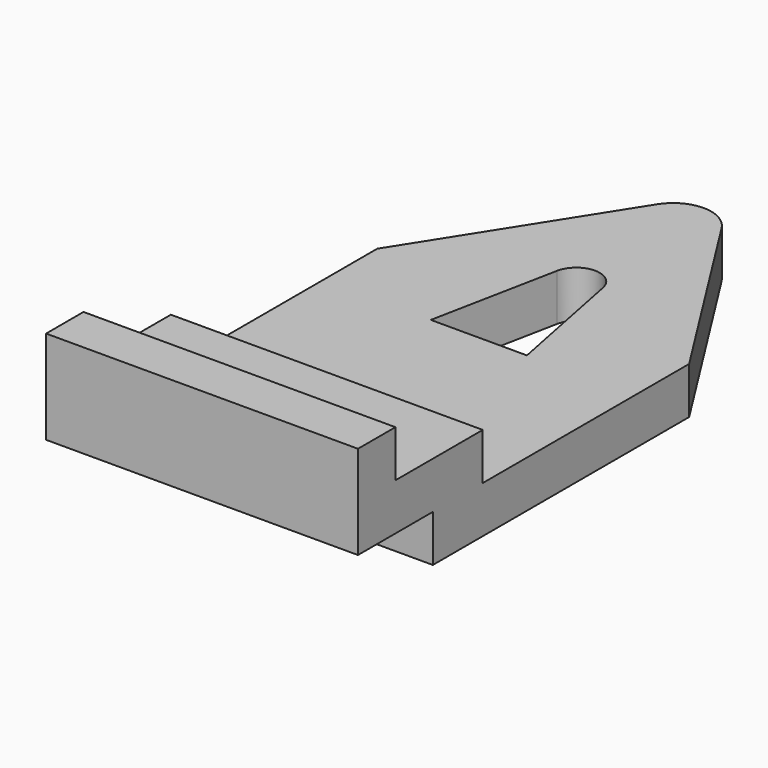
from build123d import *

# Parameters (mm, degrees)
F1_DEPTH = 3
F2_W     = 20
F2_H     = 10
F3_DEPTH = 6
F4_W     = 20
F4_H     = 6
F5_DEPTH = 3
F6_W     = 20
F6_H     = 7
F7_DEPTH = 3


with BuildPart() as f1:
    # F0 (on Top) → F1 (new body)
    with BuildSketch(Plane.XY):
        with BuildLine():
            ThreePointArc((2.064754, -3.25858), (0, -2.122529), (-2.064754, -3.25858))
            Line((-2.064754, -3.25858), (-10, -15.781926))
            Line((-10, -15.781926), (-10, -42.324677))
            Line((-10, -42.324677), (0, -42.324677))
            Line((0, -42.324677), (10, -42.324677))
            Line((10, -42.324677), (10, -15.781926))
            Line((10, -15.781926), (2.064754, -3.25858))
        make_face()
        with BuildLine():
            ThreePointArc((-1.471273, -12.032518), (0, -10.824677), (1.471273, -12.032518))
            Line((1.471273, -12.032518), (3.080257, -20.135145))
            Line((3.080257, -20.135145), (-3.080257, -20.135145))
            Line((-3.080257, -20.135145), (-1.471273, -12.032518))
        make_face(mode=Mode.SUBTRACT)
    extrude(amount=F1_DEPTH)

    # F2 (on face) → F3 (join)
    with BuildSketch(Plane.XY.offset(3)):
        with Locations((0, -37.324677)):
            Rectangle(F2_W, F2_H)
    extrude(amount=F3_DEPTH)

    # F4 (on face) → F5 (cut)
    with BuildSketch(Plane(origin=(0, 0, 0), x_dir=(1, 0, 0), z_dir=(0, 0, -1))):
        with Locations((0, 39.324677)):
            Rectangle(F4_W, F4_H)
    extrude(amount=-F5_DEPTH, mode=Mode.SUBTRACT)

    # F6 (on face) → F7 (cut)
    with BuildSketch(Plane.XY.offset(9)):
        with Locations((0, -35.824677)):
            Rectangle(F6_W, F6_H)
    extrude(amount=-F7_DEPTH, mode=Mode.SUBTRACT)


solid = f1.part
